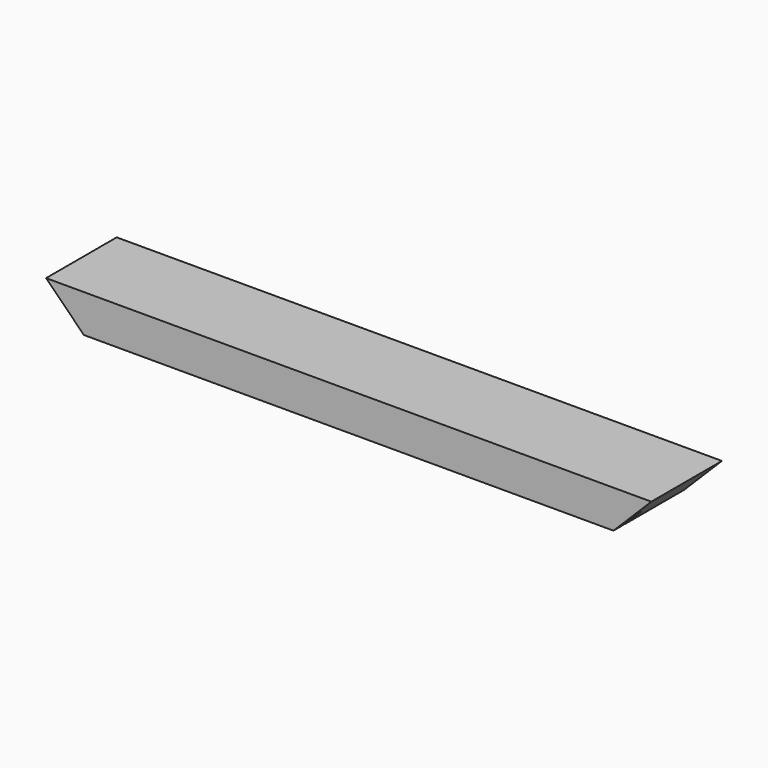
from build123d import *

# Parameters (mm, degrees)
F0_W     = 609.6
F0_H     = 88.9
F2_DEPTH = 38.1
F4_DEPTH = 88.901
F5_W     = 38.1
F5_H     = 3.175
F5_W_2   = 533.4
F1_DEPTH = 17.4625


with BuildPart() as f2:
    # F0 (on Top) → F2 (new body)
    with BuildSketch(Plane.XY):
        Rectangle(F0_W, F0_H)
    extrude(amount=F2_DEPTH)

    # F3 (on face) → F4 (cut, through all)
    with BuildSketch(Plane.XZ.offset(44.45)):
        Polygon((-266.7, 0), (-304.8, 38.1), (-304.8, 0), align=None)
        Polygon((304.8, 0), (304.8, 38.1), (266.7, 0), align=None)
    extrude(amount=-F4_DEPTH, mode=Mode.SUBTRACT)

    # F5 (on face) → F1 (cut)
    with BuildSketch(Plane(origin=(0, 0, 0), x_dir=(1, 0, 0), z_dir=(0, 0, -1))):
        with Locations((285.75, 31.75)):
            Rectangle(F5_W, F5_H)
        with Locations((0, 31.75)):
            Rectangle(F5_W_2, F5_H)
        with Locations((-285.75, 31.75)):
            Rectangle(F5_W, F5_H)
    extrude(amount=-F1_DEPTH, mode=Mode.SUBTRACT)


solid = f2.part
